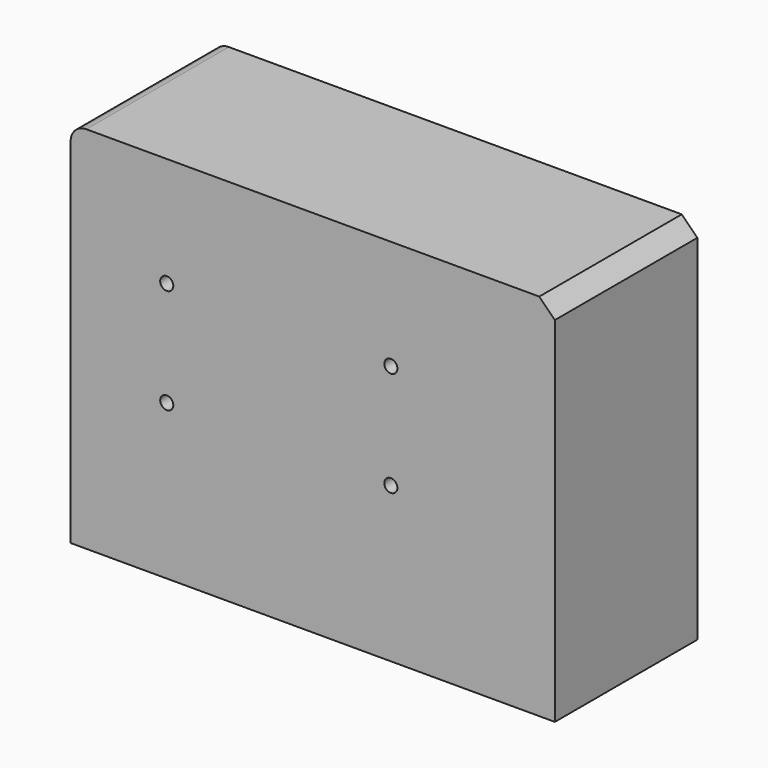
from build123d import *

# Parameters (mm, degrees)
F0_W     = 155.2556827664
F0_H     = 118.4387393296
F1_DEPTH = 57.1
F3_D     = 4.2
F4_R     = 5
F5_SIZE  = 5


with BuildPart() as f1:
    # F0 (on Front) → F1 (new body)
    with BuildSketch(Plane.XZ):
        with Locations((10.389957577, 21.1075376719)):
            Rectangle(F0_W, F0_H)
    extrude(amount=F1_DEPTH)

    # F3 (through all)
    with Locations(Plane(origin=(0, 0, 0), x_dir=(-1, 0, 0), z_dir=(0, 1, 0))):
        with Locations((-35.4269519448, 45.1725050807), (36.4308133721, 45.1725050807), (36.4308133721, 11.5158585832), (-35.4269519448, 11.5158585832)):
            Hole(F3_D / 2)

    # F4
    f4_edges = [f1.edges().sort_by_distance(p)[0] for p in [
        (-67.237884, -28.55, 80.326907),
    ]]
    fillet(f4_edges, radius=F4_R)

    # F5
    f5_edges = [f1.edges().sort_by_distance(p)[0] for p in [
        (88.017799, -28.55, 80.326907),
    ]]
    chamfer(f5_edges, length=F5_SIZE)


solid = f1.part
